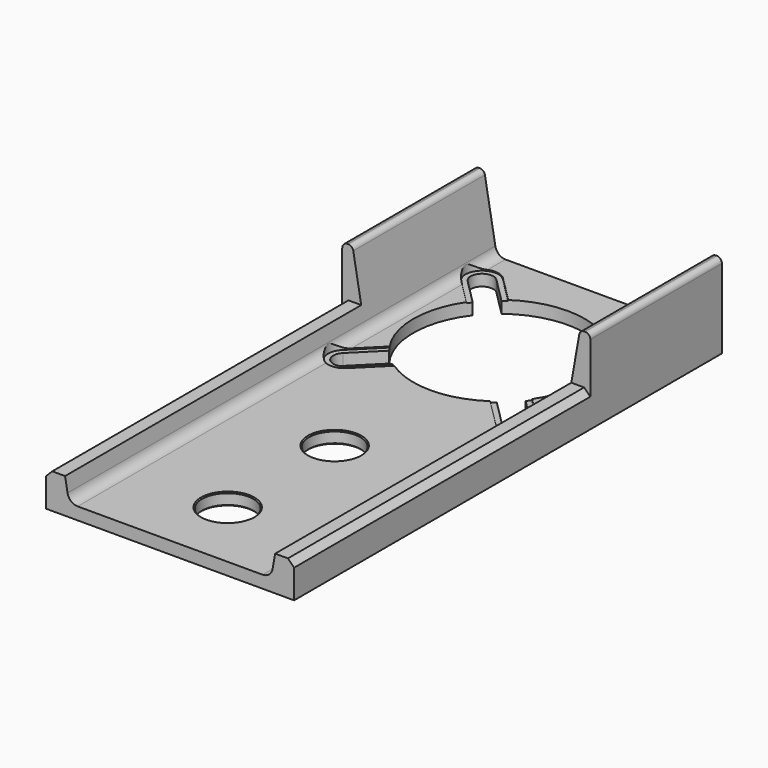
from build123d import *

# Parameters (mm, degrees)
F1_DEPTH  = 330.2
F2_W      = 165.1
F2_H      = 35.56
F3_DEPTH  = 228.6
F4_SIZE   = 3.81
F6_DEPTH  = 25.4
F8_DEPTH  = 0.635
F9_DEPTH  = 25.4
F10_R     = 15.875
F11_DEPTH = 25.4
F12_SIZE  = 0.635


with BuildPart() as f1:
    # F0 (on Front) → F1 (new body)
    with BuildSketch(Plane.XZ):
        with BuildLine():
            Line((-76.581, 48.895), (-76.581, 0))
            Line((-76.581, 0), (76.581, 0))
            Line((76.581, 0), (76.581, 48.895))
            ThreePointArc((76.581, 48.895), (75.6510640303, 51.1400640303), (73.406, 52.07))
            Line((73.406, 52.07), (72.895141329, 52.07))
            ThreePointArc((72.895141329, 52.07), (70.8542906682, 51.3271911069), (69.7683767132, 49.4463329641))
            Line((69.7683767132, 49.4463329641), (63.3185122812, 12.8673340718))
            ThreePointArc((63.3185122812, 12.8673340718), (61.146684371, 9.1056177862), (57.0649830495, 7.62))
            Line((57.0649830495, 7.62), (0, 7.62))
            Line((0, 7.62), (-57.0649830495, 7.62))
            ThreePointArc((-57.0649830495, 7.62), (-61.146684371, 9.1056177862), (-63.3185122812, 12.8673340718))
            Line((-63.3185122812, 12.8673340718), (-69.7683767132, 49.4463329641))
            ThreePointArc((-69.7683767132, 49.4463329641), (-70.8542906682, 51.3271911069), (-72.895141329, 52.07))
            Line((-72.895141329, 52.07), (-73.406, 52.07))
            ThreePointArc((-73.406, 52.07), (-75.6510640303, 51.1400640303), (-76.581, 48.895))
        make_face()
    extrude(amount=F1_DEPTH)

    # F2 (on face) → F3 (cut)
    with BuildSketch(Plane.XZ.offset(330.2)):
        with Locations((0, 39.37)):
            Rectangle(F2_W, F2_H)
    extrude(amount=-F3_DEPTH, mode=Mode.SUBTRACT)

    # F4
    f4_edges = [f1.edges().sort_by_distance(p)[0] for p in [
        (76.581, -215.9, 21.59),
        (-76.581, -215.9, 21.59),
    ]]
    chamfer(f4_edges, length=F4_SIZE)

    # F5 (on face) → F6 (cut)
    with BuildSketch(Plane.XY.offset(7.62)):
        with BuildLine():
            Line((-57.9536338645, -28.1246478687), (-42.1049536604, -43.9733280728))
            ThreePointArc((-42.1049536604, -43.9733280728), (-53.0225, -76.2), (-42.1049536604, -108.4266719272))
            Line((-42.1049536604, -108.4266719272), (-57.9536338645, -124.2753521313))
            ThreePointArc((-57.9536338645, -124.2753521313), (-57.9536338645, -134.1536338645), (-48.0753521313, -134.1536338645))
            Line((-48.0753521313, -134.1536338645), (-32.2266719272, -118.3049536604))
            ThreePointArc((-32.2266719272, -118.3049536604), (0, -129.2225), (32.2266719272, -118.3049536604))
            Line((32.2266719272, -118.3049536604), (48.0753521313, -134.1536338645))
            ThreePointArc((48.0753521313, -134.1536338645), (57.9536338645, -134.1536338645), (57.9536338645, -124.2753521313))
            Line((57.9536338645, -124.2753521313), (42.1049536604, -108.4266719272))
            ThreePointArc((42.1049536604, -108.4266719272), (53.0225, -76.2), (42.1049536604, -43.9733280728))
            Line((42.1049536604, -43.9733280728), (57.9536338645, -28.1246478687))
            ThreePointArc((57.9536338645, -28.1246478687), (57.9536338645, -18.2463661355), (48.0753521313, -18.2463661355))
            Line((48.0753521313, -18.2463661355), (32.2266719272, -34.0950463396))
            ThreePointArc((32.2266719272, -34.0950463396), (0, -23.1775), (-32.2266719272, -34.0950463396))
            Line((-32.2266719272, -34.0950463396), (-48.0753521313, -18.2463661355))
            ThreePointArc((-48.0753521313, -18.2463661355), (-57.9536338645, -18.2463661355), (-57.9536338645, -28.1246478687))
        make_face()
    extrude(amount=-F6_DEPTH, mode=Mode.SUBTRACT)

    # F7 (on face) → F8 (cut)
    with BuildSketch(Plane.XY.offset(7.62)):
        with BuildLine():
            ThreePointArc((-60.1986978948, -30.3697118989), (-49.1264293251, -32.5721230524), (-42.8544929979, -23.1855070021))
            ThreePointArc((-42.8544929979, -23.1855070021), (-43.6278769476, -19.2974433292), (-45.8302881011, -16.0013021052))
            ThreePointArc((-45.8302881011, -16.0013021052), (-60.1986978948, -16.0013021052), (-60.1986978948, -30.3697118989))
        make_face()
        with BuildLine():
            ThreePointArc((-45.8302881011, -16.0013021052), (-43.6278769476, -19.2974433292), (-42.8544929979, -23.1855070021))
            ThreePointArc((-42.8544929979, -23.1855070021), (-49.1264293251, -32.5721230524), (-60.1986978948, -30.3697118989))
            Line((-60.1986978948, -30.3697118989), (-43.1340409794, -47.4343688143))
            Line((-43.1340409794, -47.4343688143), (-28.767801471, -33.0637887353))
            Line((-28.767801471, -33.0637887353), (-45.8302881011, -16.0013021052))
        make_face()
        with BuildLine():
            ThreePointArc((-45.8302881011, -136.3986978948), (-43.6278769476, -133.1025566708), (-42.8544929979, -129.2144929979))
            ThreePointArc((-42.8544929979, -129.2144929979), (-49.1264293251, -119.8278769476), (-60.1986978948, -122.0302881011))
            ThreePointArc((-60.1986978948, -122.0302881011), (-60.1986978948, -136.3986978948), (-45.8302881011, -136.3986978948))
        make_face()
        with BuildLine():
            ThreePointArc((-60.1986978948, -122.0302881011), (-49.1264293251, -119.8278769476), (-42.8544929979, -129.2144929979))
            ThreePointArc((-42.8544929979, -129.2144929979), (-43.6278769476, -133.1025566708), (-45.8302881011, -136.3986978948))
            Line((-45.8302881011, -136.3986978948), (-28.7656311857, -119.3340409794))
            Line((-28.7656311857, -119.3340409794), (-43.1362112647, -104.967801471))
            Line((-43.1362112647, -104.967801471), (-60.1986978948, -122.0302881011))
        make_face()
        with BuildLine():
            ThreePointArc((45.8302881011, -136.3986978948), (56.9025566708, -138.6011090482), (63.1744929979, -129.2144929979))
            ThreePointArc((63.1744929979, -129.2144929979), (62.4011090482, -125.3264293251), (60.1986978948, -122.0302881011))
            ThreePointArc((60.1986978948, -122.0302881011), (45.8302881011, -122.0302881011), (45.8302881011, -136.3986978948))
        make_face()
        with BuildLine():
            ThreePointArc((45.8302881011, -136.3986978948), (45.8302881011, -122.0302881011), (60.1986978948, -122.0302881011))
            Line((60.1986978948, -122.0302881011), (43.1340409794, -104.9656311857))
            Line((43.1340409794, -104.9656311857), (28.767801471, -119.3362112647))
            Line((28.767801471, -119.3362112647), (45.8302881011, -136.3986978948))
        make_face()
        with BuildLine():
            ThreePointArc((60.1986978948, -30.3697118989), (62.4011090482, -27.0735706749), (63.1744929979, -23.1855070021))
            ThreePointArc((63.1744929979, -23.1855070021), (56.9025566708, -13.7988909518), (45.8302881011, -16.0013021052))
            ThreePointArc((45.8302881011, -16.0013021052), (45.8302881011, -30.3697118989), (60.1986978948, -30.3697118989))
        make_face()
        with BuildLine():
            ThreePointArc((60.1986978948, -30.3697118989), (45.8302881011, -30.3697118989), (45.8302881011, -16.0013021052))
            Line((45.8302881011, -16.0013021052), (28.7656311857, -33.0659590206))
            Line((28.7656311857, -33.0659590206), (43.1362112647, -47.432198529))
            Line((43.1362112647, -47.432198529), (60.1986978948, -30.3697118989))
        make_face()
    extrude(amount=-F8_DEPTH, mode=Mode.SUBTRACT)

    # F7 (on face) → F9 (cut)
    with BuildSketch(Plane.XY.offset(7.62)):
        with BuildLine():
            ThreePointArc((-60.1986978948, -30.3697118989), (-49.1264293251, -32.5721230524), (-42.8544929979, -23.1855070021))
            ThreePointArc((-42.8544929979, -23.1855070021), (-43.6278769476, -19.2974433292), (-45.8302881011, -16.0013021052))
            ThreePointArc((-45.8302881011, -16.0013021052), (-60.1986978948, -16.0013021052), (-60.1986978948, -30.3697118989))
        make_face()
        with BuildLine():
            ThreePointArc((-45.8302881011, -16.0013021052), (-43.6278769476, -19.2974433292), (-42.8544929979, -23.1855070021))
            ThreePointArc((-42.8544929979, -23.1855070021), (-49.1264293251, -32.5721230524), (-60.1986978948, -30.3697118989))
            Line((-60.1986978948, -30.3697118989), (-43.1340409794, -47.4343688143))
            Line((-43.1340409794, -47.4343688143), (-28.767801471, -33.0637887353))
            Line((-28.767801471, -33.0637887353), (-45.8302881011, -16.0013021052))
        make_face()
        with BuildLine():
            ThreePointArc((-45.8302881011, -136.3986978948), (-43.6278769476, -133.1025566708), (-42.8544929979, -129.2144929979))
            ThreePointArc((-42.8544929979, -129.2144929979), (-49.1264293251, -119.8278769476), (-60.1986978948, -122.0302881011))
            ThreePointArc((-60.1986978948, -122.0302881011), (-60.1986978948, -136.3986978948), (-45.8302881011, -136.3986978948))
        make_face()
        with BuildLine():
            ThreePointArc((-60.1986978948, -122.0302881011), (-49.1264293251, -119.8278769476), (-42.8544929979, -129.2144929979))
            ThreePointArc((-42.8544929979, -129.2144929979), (-43.6278769476, -133.1025566708), (-45.8302881011, -136.3986978948))
            Line((-45.8302881011, -136.3986978948), (-28.7656311857, -119.3340409794))
            Line((-28.7656311857, -119.3340409794), (-43.1362112647, -104.967801471))
            Line((-43.1362112647, -104.967801471), (-60.1986978948, -122.0302881011))
        make_face()
        with BuildLine():
            ThreePointArc((45.8302881011, -136.3986978948), (56.9025566708, -138.6011090482), (63.1744929979, -129.2144929979))
            ThreePointArc((63.1744929979, -129.2144929979), (62.4011090482, -125.3264293251), (60.1986978948, -122.0302881011))
            ThreePointArc((60.1986978948, -122.0302881011), (45.8302881011, -122.0302881011), (45.8302881011, -136.3986978948))
        make_face()
        with BuildLine():
            ThreePointArc((45.8302881011, -136.3986978948), (45.8302881011, -122.0302881011), (60.1986978948, -122.0302881011))
            Line((60.1986978948, -122.0302881011), (43.1340409794, -104.9656311857))
            Line((43.1340409794, -104.9656311857), (28.767801471, -119.3362112647))
            Line((28.767801471, -119.3362112647), (45.8302881011, -136.3986978948))
        make_face()
        with BuildLine():
            ThreePointArc((60.1986978948, -30.3697118989), (62.4011090482, -27.0735706749), (63.1744929979, -23.1855070021))
            ThreePointArc((63.1744929979, -23.1855070021), (56.9025566708, -13.7988909518), (45.8302881011, -16.0013021052))
            ThreePointArc((45.8302881011, -16.0013021052), (45.8302881011, -30.3697118989), (60.1986978948, -30.3697118989))
        make_face()
        with BuildLine():
            ThreePointArc((60.1986978948, -30.3697118989), (45.8302881011, -30.3697118989), (45.8302881011, -16.0013021052))
            Line((45.8302881011, -16.0013021052), (28.7656311857, -33.0659590206))
            Line((28.7656311857, -33.0659590206), (43.1362112647, -47.432198529))
            Line((43.1362112647, -47.432198529), (60.1986978948, -30.3697118989))
        make_face()
    extrude(amount=F9_DEPTH, mode=Mode.SUBTRACT)

    # F10 (on face) → F11 (cut)
    with BuildSketch(Plane(origin=(0, 0, 0), x_dir=(1, 0, 0), z_dir=(0, 0, -1))):
        with Locations((0, 285.75)):
            Circle(F10_R)
        with Locations((0, 203.2)):
            Circle(F10_R)
    extrude(amount=-F11_DEPTH, mode=Mode.SUBTRACT)

    # F12
    f12_edges = [f1.edges().sort_by_distance(p)[0] for p in [
        (-15.875, -203.2, 7.62),
        (-15.875, -203.2, 0),
        (-15.875, -285.75, 0),
        (-15.875, -285.75, 7.62),
    ]]
    chamfer(f12_edges, length=F12_SIZE)


solid = f1.part
